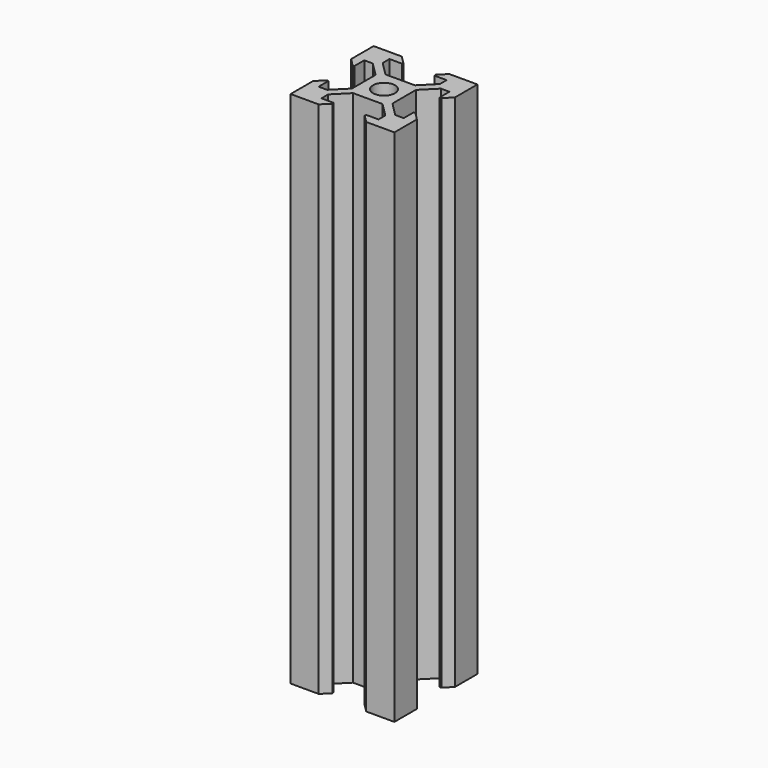
from build123d import *

# Parameters (mm, degrees)
SKETCH_R  = 2.1
PAD_DEPTH = 100


with BuildPart() as part:
    # Sketch → Pad (new body)
    with BuildSketch(Plane.XY):
        Polygon((-10, 10), (-4.58, 10), (-3.125, 8.545), (-3.125, 8.2), (-5.5, 8.2), (-5.5, 6.56066), (-2.83934, 3.9), (2.83934, 3.9), (5.5, 6.56066), (5.5, 8.2), (3.125, 8.2), (3.125, 8.545), (4.58, 10), (10, 10), (10, 4.58), (8.545, 3.125), (8.2, 3.125), (8.2, 5.5), (6.56066, 5.5), (3.9, 2.83934), (3.9, -2.83934), (6.56066, -5.5), (8.2, -5.5), (8.2, -3.125), (8.545, -3.125), (10, -4.58), (10, -10), (4.58, -10), (3.125, -8.545), (3.125, -8.2), (5.5, -8.2), (5.5, -6.56066), (2.83934, -3.9), (-2.83934, -3.9), (-5.5, -6.56066), (-5.5, -8.2), (-3.125, -8.2), (-3.125, -8.545), (-4.58, -10), (-10, -10), (-10, -4.58), (-8.545, -3.125), (-8.2, -3.125), (-8.2, -5.5), (-6.56066, -5.5), (-3.9, -2.83934), (-3.9, 2.83934), (-6.56066, 5.5), (-8.2, 5.5), (-8.2, 3.125), (-8.545, 3.125), (-10, 4.58), align=None)
        Circle(SKETCH_R, mode=Mode.SUBTRACT)
    extrude(amount=PAD_DEPTH)


solid = part.part
